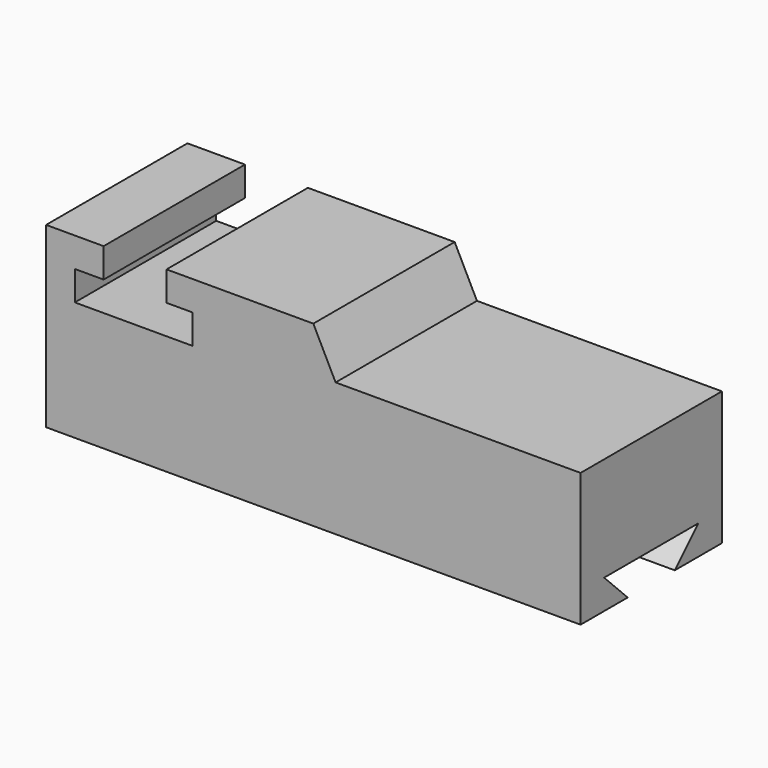
from build123d import *

# Parameters (mm, degrees)
F1_DEPTH = 76.2
F3_DEPTH = 152.4


with BuildPart() as f1:
    # F0 (on Front) → F1 (new body)
    with BuildSketch(Plane.XZ):
        Polygon((-230.51038, 0), (0, 0), (0, 57.627595), (-105.650591, 57.627595), (-115.25519, 76.836793), (-178.560193, 76.836793), (-178.560193, 64.136793), (-167.302838, 64.136793), (-167.302838, 51.436793), (-218.102838, 51.436793), (-218.102838, 64.136793), (-205.695296, 64.136793), (-205.695296, 76.836793), (-230.51038, 76.836793), align=None)
    extrude(amount=F1_DEPTH)

    # F2 (on face) → F3 (cut)
    with BuildSketch(Plane.YZ):
        Polygon((-12.7, 12.7), (-38.1, 12.7), (-63.5, 12.7), (-50.8, 0), (-25.4, 0), align=None)
    extrude(amount=-F3_DEPTH, mode=Mode.SUBTRACT)


solid = f1.part
